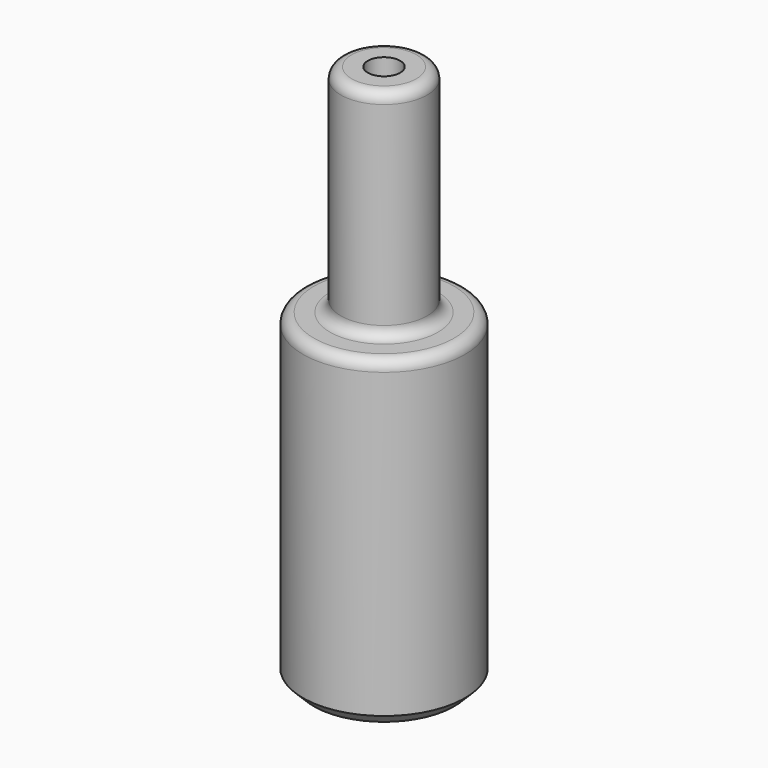
from build123d import *

# Parameters (mm, degrees)
F2_R    = 1
F3_SIZE = 1


with BuildPart() as f1:
    # F0 (on Right) → F1 (revolve)
    with BuildSketch(Plane.YZ):
        Polygon((2.5, 27), (2.5, 0), (7.5, 0), (7.5, 30), (4, 30), (4, 50), (1.5, 50), (1.5, 27), align=None)
    revolve(axis=Axis((0, 0, 12.798217), (0, 0, -1)))

    # F2
    f2_edges = [f1.edges().sort_by_distance(p)[0] for p in [
        (0, -4, 50),
        (0, -4, 30),
        (0, -7.5, 30),
    ]]
    fillet(f2_edges, radius=F2_R)

    # F3
    f3_edges = [f1.edges().sort_by_distance(p)[0] for p in [
        (0, -7.5, 0),
    ]]
    chamfer(f3_edges, length=F3_SIZE)


solid = f1.part
